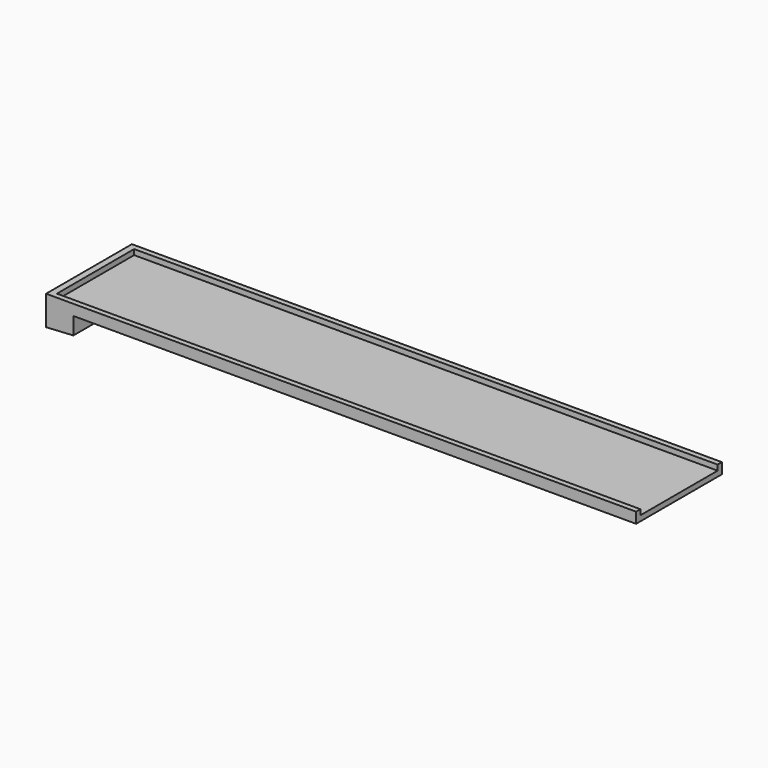
from build123d import *

# Parameters (mm, degrees)
F0_W     = 220
F0_H     = 40
F1_DEPTH = 2
F2_W     = 10.18609
F2_H     = 40
F3_DEPTH = 7
F5_DEPTH = 2
F7_DEPTH = 40.001


with BuildPart() as f1:
    # F0 (on Top) → F1 (new body)
    with BuildSketch(Plane.XY):
        with Locations((49.58334, 5.469682)):
            Rectangle(F0_W, F0_H)
    extrude(amount=F1_DEPTH)

    # F2 (on face) → F3 (join)
    with BuildSketch(Plane(origin=(0, 0, 0), x_dir=(1, 0, 0), z_dir=(0, 0, -1))):
        with Locations((-55.323615, -5.469682)):
            Rectangle(F2_W, F2_H)
    extrude(amount=F3_DEPTH)

    # F4 (on face) → F5 (join)
    with BuildSketch(Plane.XY.offset(2)):
        Polygon((159.58334, 25.469682), (-60.41666, 25.469682), (-60.41666, -14.530318), (159.58334, -14.530318), (159.58334, -12.530318), (-57.984237, -12.530318), (-57.984237, 23.469682), (159.58334, 23.469682), align=None)
    extrude(amount=F5_DEPTH)

    # F6 (on face) → F7 (cut, through all)
    with BuildSketch(Plane(origin=(0, 25.469682, 0), x_dir=(-1, 0, 0), z_dir=(0, 1, 0))):
        Polygon((50.23057, -6.4), (50.23057, -7), (60.41666, -7), align=None)
    extrude(amount=-F7_DEPTH, mode=Mode.SUBTRACT)


solid = f1.part
